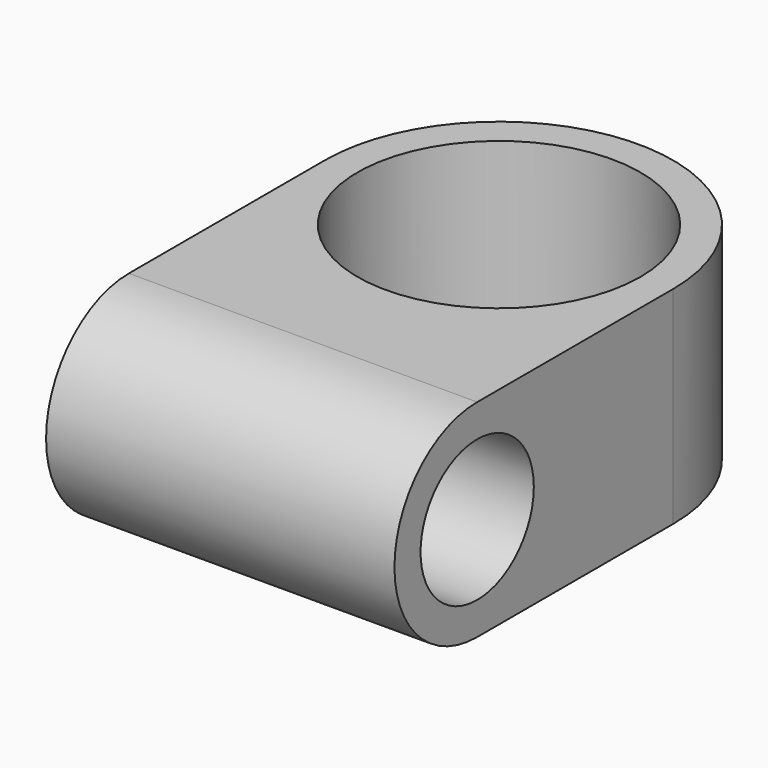
from build123d import *

# Parameters (mm, degrees)
F0_R     = 16
F1_DEPTH = 19
F3_DEPTH = 16
F4_R     = 13
F5_DEPTH = 25
F6_R     = 6.5
F7_DEPTH = 32.001


with BuildPart() as f1:
    # F0 (on Top) → F1 (new body)
    with BuildSketch(Plane.XY):
        Circle(F0_R)
    extrude(amount=F1_DEPTH)

    # F2 (on Right) → F3 (join, symmetric)
    with BuildSketch(Plane.YZ):
        with BuildLine():
            Line((0, 19), (-22.5, 19))
            ThreePointArc((-22.5, 19), (-32, 9.5), (-22.5, 0))
            Line((-22.5, 0), (0, 0))
            Line((0, 0), (0, 19))
        make_face()
    extrude(amount=F3_DEPTH, both=True)

    # F4 (on face) → F5 (cut)
    with BuildSketch(Plane.XY.offset(19)):
        Circle(F4_R)
    extrude(amount=-F5_DEPTH, mode=Mode.SUBTRACT)

    # F6 (on face) → F7 (cut, through all)
    with BuildSketch(Plane.YZ.offset(16)):
        with Locations((-22.5, 9.5)):
            Circle(F6_R)
    extrude(amount=-F7_DEPTH, mode=Mode.SUBTRACT)


solid = f1.part
